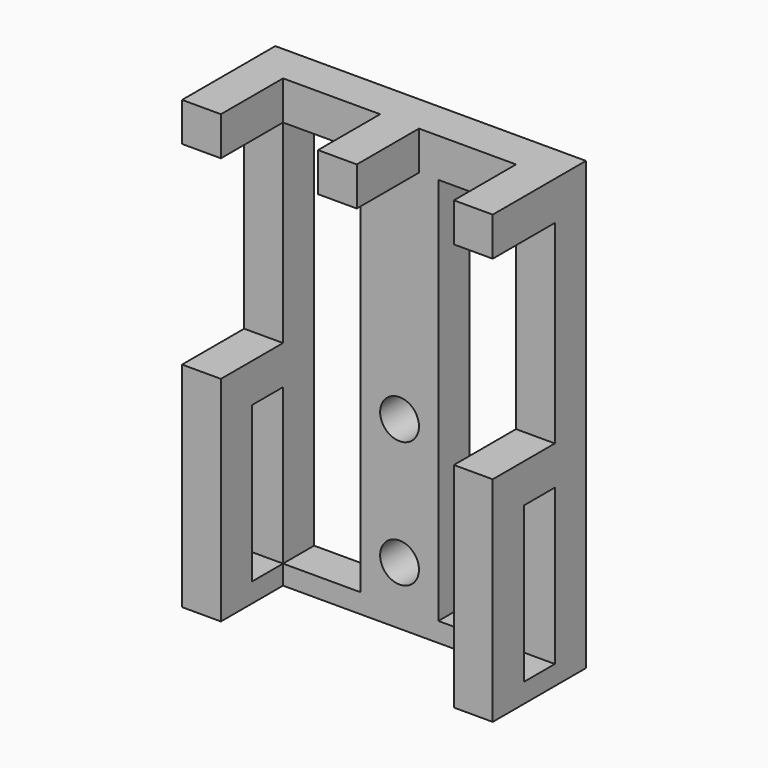
from build123d import *

# Parameters (mm, degrees)
F0_W     = 32
F0_H     = 46
F0_W_2   = 8
F0_H_2   = 40
F0_R     = 2
F1_DEPTH = 4
F2_W     = 4
F2_H     = 4
F2_H_2   = 2
F3_DEPTH = 8
F4_W     = 4
F4_H     = 22
F5_DEPTH = 4


with BuildPart() as f1:
    # F0 (on Front) → F1 (new body)
    with BuildSketch(Plane.XZ):
        with Locations((0, -23)):
            Rectangle(F0_W, F0_H)
        with Locations((-8, -24)):
            Rectangle(F0_W_2, F0_H_2, mode=Mode.SUBTRACT)
        with Locations((0, -40)):
            Circle(F0_R, mode=Mode.SUBTRACT)
        with Locations((0, -27)):
            Circle(F0_R, mode=Mode.SUBTRACT)
        with Locations((8, -24)):
            Rectangle(F0_W_2, F0_H_2, mode=Mode.SUBTRACT)
    extrude(amount=F1_DEPTH)

    # F2 (on face) → F3 (join)
    with BuildSketch(Plane.XZ.offset(4)):
        with Locations((-14, -2)):
            Rectangle(F2_W, F2_H)
        with Locations((14, -2)):
            Rectangle(F2_W, F2_H)
        with Locations((0, -2)):
            Rectangle(F2_W, F2_H)
        with Locations((-14, -26)):
            Rectangle(F2_W, F2_H)
        with Locations((14, -26)):
            Rectangle(F2_W, F2_H)
        with Locations((-14, -45)):
            Rectangle(F2_W, F2_H_2)
        with Locations((14, -45)):
            Rectangle(F2_W, F2_H_2)
    extrude(amount=F3_DEPTH)

    # F4 (on face) → F5 (join)
    with BuildSketch(Plane.XZ.offset(12)):
        with Locations((-14, -35)):
            Rectangle(F4_W, F4_H)
        with Locations((14, -35)):
            Rectangle(F4_W, F4_H)
    extrude(amount=-F5_DEPTH)


solid = f1.part
